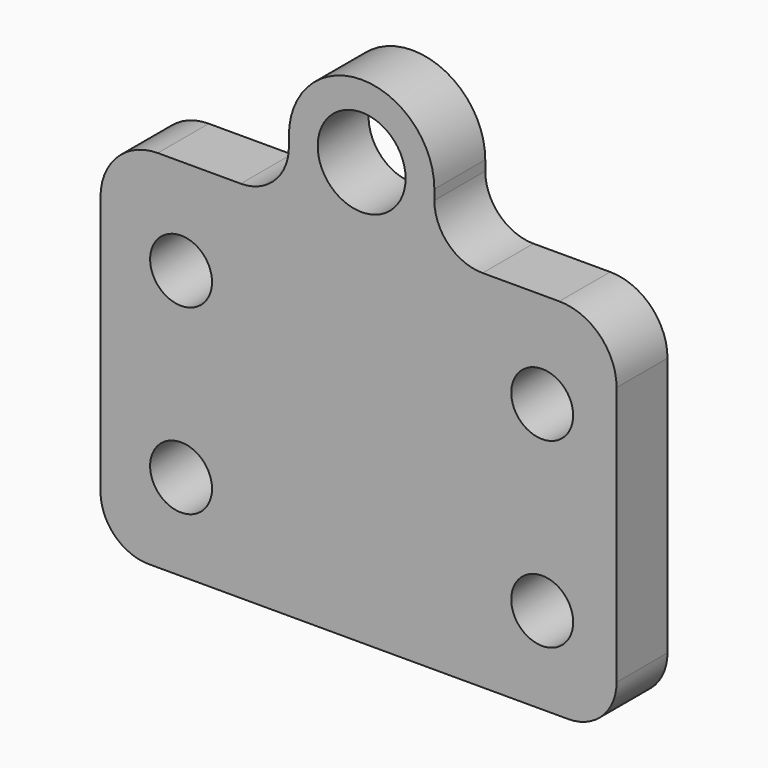
from build123d import *

# Parameters (mm, degrees)
F0_R     = 3.212587
F0_R_2   = 4.561845
F1_DEPTH = 6.604


with BuildPart() as f1:
    # F0 (on Front) → F1 (new body)
    with BuildSketch(Plane.XZ):
        with BuildLine():
            Line((-48.562958, 0), (-5, 0))
            ThreePointArc((-5, 0), (-1.464466, 1.464466), (0, 5))
            Line((0, 5), (0, 31.923081))
            ThreePointArc((0, 31.923081), (-1.741241, 36.126808), (-5.944968, 37.868049))
            Line((-5.944968, 37.868049), (-13.91329, 37.868049))
            ThreePointArc((-13.91329, 37.868049), (-17.448823, 39.332515), (-18.91329, 42.868049))
            Line((-18.91329, 42.868049), (-18.91329, 43.906312))
            ThreePointArc((-18.91329, 43.906312), (-26.461123, 51.454146), (-34.008957, 43.906312))
            Line((-34.008957, 43.906312), (-34.008957, 42.868049))
            ThreePointArc((-34.008957, 42.868049), (-35.473424, 39.332515), (-39.008957, 37.868049))
            Line((-39.008957, 37.868049), (-47.61799, 37.868049))
            ThreePointArc((-47.61799, 37.868049), (-51.821717, 36.126808), (-53.562958, 31.923081))
            Line((-53.562958, 31.923081), (-53.562958, 5))
            ThreePointArc((-53.562958, 5), (-52.098492, 1.464466), (-48.562958, 0))
        make_face()
        with Locations((-45.20119, 9.01679)):
            Circle(F0_R, mode=Mode.SUBTRACT)
        with Locations((-7.721057, 9.01679)):
            Circle(F0_R, mode=Mode.SUBTRACT)
        with Locations((-45.20119, 27.906291)):
            Circle(F0_R, mode=Mode.SUBTRACT)
        with Locations((-7.721057, 27.906291)):
            Circle(F0_R, mode=Mode.SUBTRACT)
        with Locations((-26.461123, 43.906312)):
            Circle(F0_R_2, mode=Mode.SUBTRACT)
    extrude(amount=-F1_DEPTH)


solid = f1.part
